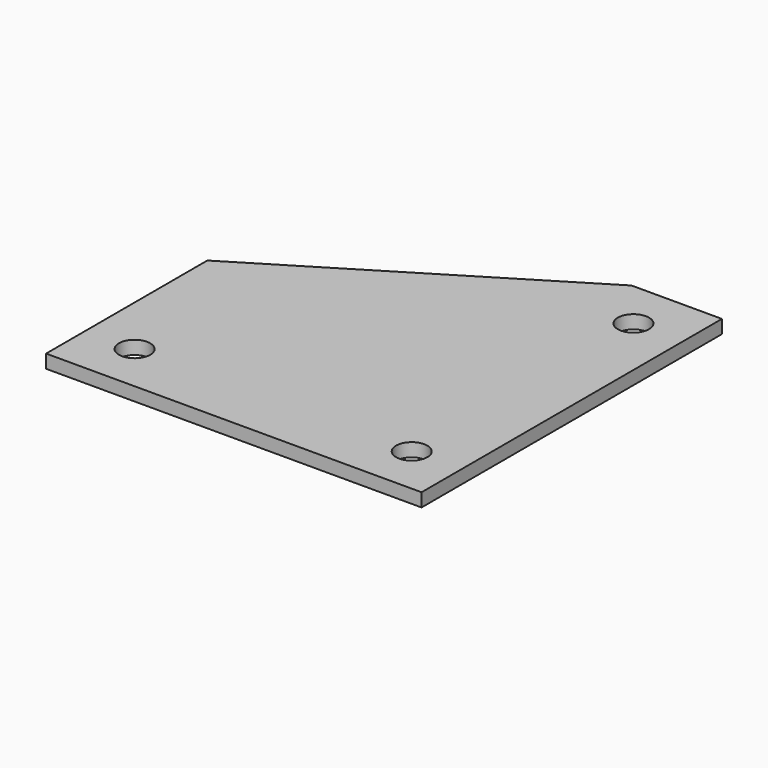
from build123d import *

# Parameters (mm, degrees)
SKETCH009_W     = 42
SKETCH009_H     = 42
PAD_DEPTH       = 1.5
POCKET_DEPTH    = 5
SKETCH010_R     = 1.75
POCKET001_DEPTH = 5


with BuildPart() as part:
    # Sketch009 → Pad (new body)
    with BuildSketch(Plane.XY):
        Rectangle(SKETCH009_W, SKETCH009_H)
    extrude(amount=PAD_DEPTH)

    # Sketch (on Face6 of Pad) → Pocket (cut)
    with BuildSketch(Plane.XY.offset(1.5)):
        Polygon((15.08529, 23.560768), (-32.782513, -5.650321), (-32.782513, 34.968018), align=None)
    extrude(amount=-POCKET_DEPTH, mode=Mode.SUBTRACT)

    # Sketch010 (on Face4 of Pocket) → Pocket001 (cut)
    with BuildSketch(Plane.XY.offset(1.5)):
        with Locations((-15.5, 15.5)):
            Circle(SKETCH010_R)
        with Locations((15.5, -15.5)):
            Circle(SKETCH010_R)
        with Locations((15.5, 15.5)):
            Circle(SKETCH010_R)
        with Locations((-15.5, -15.5)):
            Circle(SKETCH010_R)
    extrude(amount=-POCKET001_DEPTH, mode=Mode.SUBTRACT)


solid = part.part
